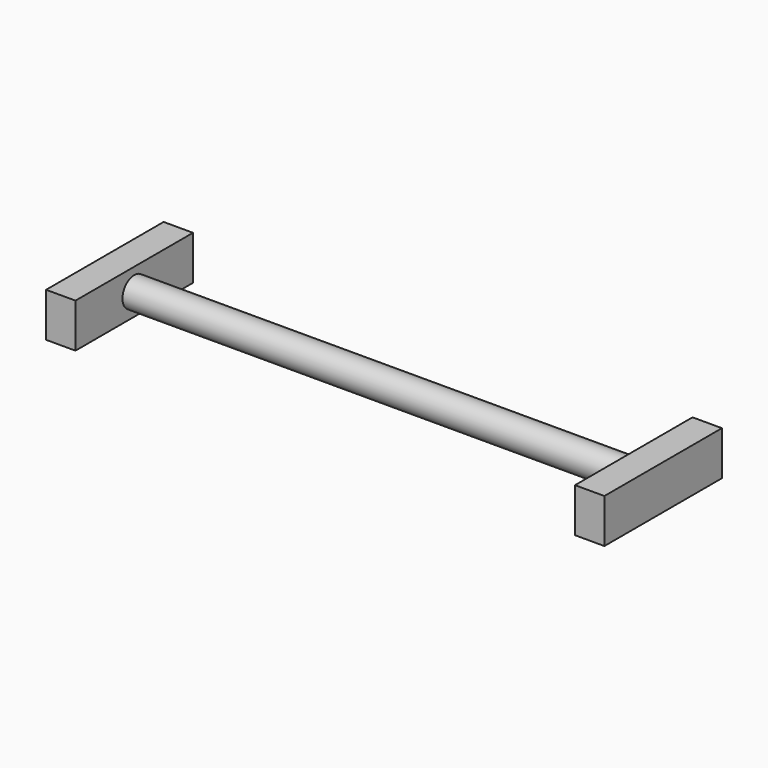
from build123d import *

# Parameters (mm, degrees)
F1_DEPTH = 38.1
F2_R     = 12.7
F3_DEPTH = 431.8
F4_W     = 127
F4_H     = 38.1
F5_DEPTH = 25.4


with BuildPart() as f1:
    # F0 (on Top) → F1 (new body)
    with BuildSketch(Plane.XY):
        Polygon((-46.300181, 91.77144), (-71.700181, 91.77144), (-71.700181, -35.22856), (-46.300181, -35.22856), (-46.300181, 15.57144), (-46.300181, 40.97144), align=None)
    extrude(amount=F1_DEPTH)

    # F2 (on face) → F3 (join)
    with BuildSketch(Plane.YZ.offset(-46.300181)):
        with Locations((28.27144, 19.05)):
            Circle(F2_R)
    extrude(amount=F3_DEPTH)

    # F4 (on face) → F5 (join)
    with BuildSketch(Plane.YZ.offset(385.499819)):
        with Locations((28.27144, 19.05)):
            Rectangle(F4_W, F4_H)
    extrude(amount=F5_DEPTH)


solid = f1.part
